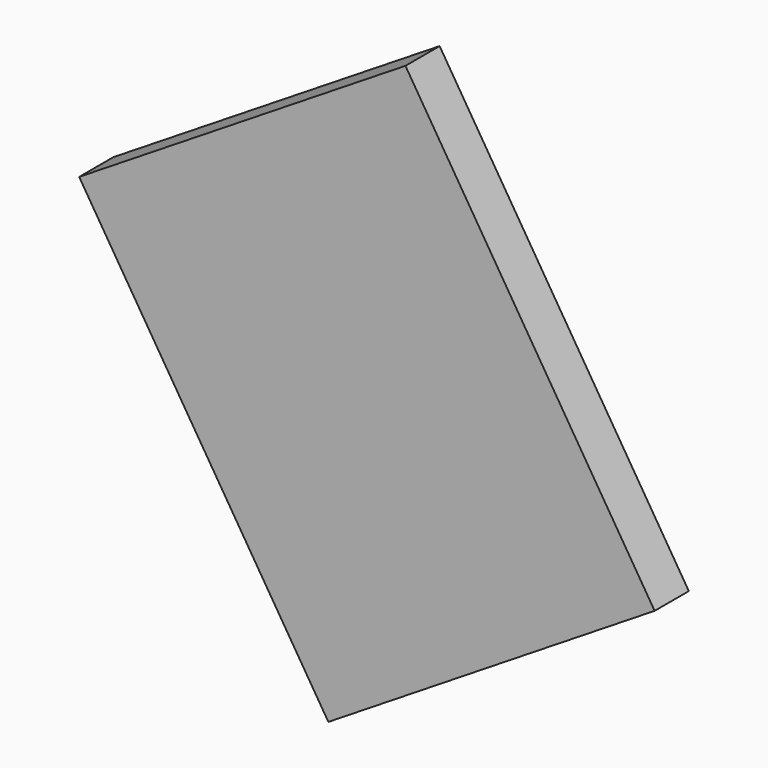
from build123d import *

# Parameters (mm, degrees)
CYLINDER067_R          = 0.5
CYLINDER067_DEPTH      = 0.01
BOX148_W               = 4.5
BOX148_H               = 5.5
BOX148_DEPTH           = 0.5
CUT069_ROLL_ANGLE      = 90
CUT069_PITCH_ANGLE     = 32
CUT069_PLACEMENT_ANGLE = -180


with BuildPart() as cylinder067:
    # Cylinder067 → Cylinder067 (new body)
    with BuildSketch(Plane(origin=(1, 4.5, 0.49), x_dir=(1, 0, 0), z_dir=(0, 0, 1))):
        Circle(CYLINDER067_R)
    extrude(amount=CYLINDER067_DEPTH)


with BuildPart() as obj1:
    # Box148 → Box148 (new body)
    with BuildSketch(Plane.XY):
        with Locations((2.25, 2.75)):
            Rectangle(BOX148_W, BOX148_H)
    extrude(amount=BOX148_DEPTH)

    # Cut069: cut Cylinder067
    add(cylinder067.part, mode=Mode.SUBTRACT)


with BuildPart() as obj1_1:
    # Cut069 roll: moved
    add(obj1.part.rotate(Axis((0, 0, 0), (1, 0, 0)), CUT069_ROLL_ANGLE))


with BuildPart() as obj1_2:
    # Cut069 pitch: moved
    add(obj1_1.part.rotate(Axis((0, 0, 0), (0, 1, 0)), CUT069_PITCH_ANGLE))


with BuildPart() as obj1_3:
    # Cut069 placement: moved
    add(obj1_2.part.moved(Location((-2.69879, 2.19, 34.677519))).rotate(Axis((-2.69879, 2.19, 34.677519), (0, 0, 1)), CUT069_PLACEMENT_ANGLE))


solid = obj1_3.part
